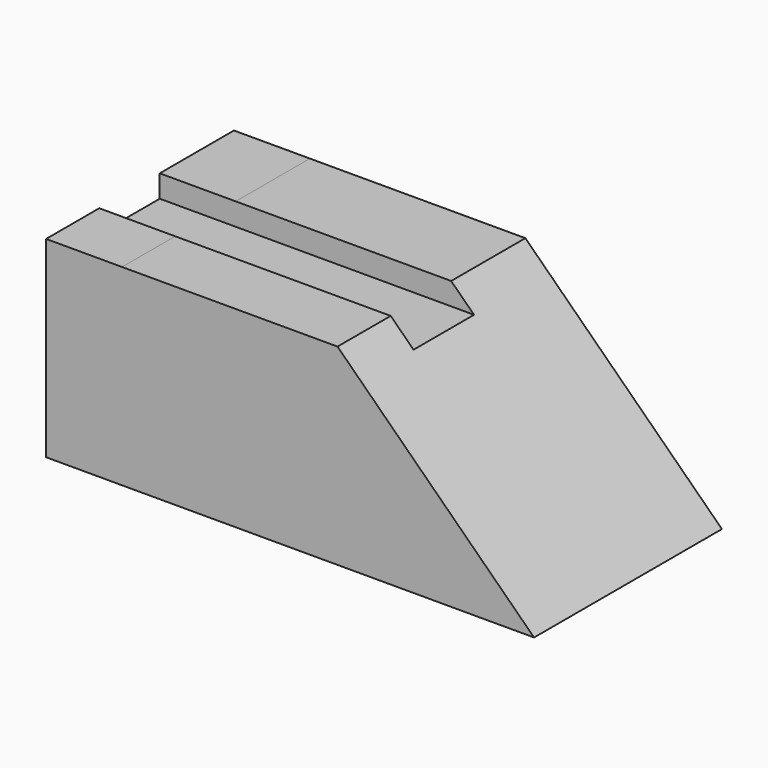
from build123d import *

# Parameters (mm, degrees)
F0_W      = 192.934886
F0_H      = 89.607019
F1_DEPTH  = 109.474
F3_DEPTH  = 147.32
F1_FACE_W = 109.474
F1_FACE_H = 89.607018
F4_DEPTH  = 85.598
F5_W      = 35.253451
F5_H      = 16.860347
F6_DEPTH  = 199.898
F8_DEPTH  = 210.82


with BuildPart() as f1:
    # F0 (on Front) → F1 (new body)
    with BuildSketch(Plane.XZ):
        with Locations((2.279423, 8.000025)):
            Rectangle(F0_W, F0_H)
    extrude(amount=F1_DEPTH)

    # F2 (on Front) → F3 (cut, symmetric)
    with BuildSketch(Plane.XZ):
        Polygon((0, 58.934569), (99.073134, -37.935775), (122.37107, -39.468534), (122.37107, 39.621811), (95.08796, 58.934569), align=None)
    extrude(amount=F3_DEPTH, both=True, mode=Mode.SUBTRACT)

    # F1_face (on face) → F4 (join)
    with BuildSketch(Plane(origin=(-94.18802, -54.737, 8.000026), x_dir=(0, -1, 0), z_dir=(-1, 0, 0))):
        Rectangle(F1_FACE_W, F1_FACE_H)
    extrude(amount=F4_DEPTH)

    # F5 (on Right) → F6 (cut, symmetric)
    with BuildSketch(Plane.YZ):
        with Locations((-60.857087, 50.810949)):
            Rectangle(F5_W, F5_H)
    extrude(amount=F6_DEPTH, both=True, mode=Mode.SUBTRACT)

    # F7 (on Front) → F8 (cut, symmetric)
    with BuildSketch(Plane.XZ):
        Polygon((-129.605547, -57.861637), (-129.605547, 68.131119), (-195.514172, 67.211464), (-195.514172, -57.861637), align=None)
    extrude(amount=F8_DEPTH, both=True, mode=Mode.SUBTRACT)


solid = f1.part
